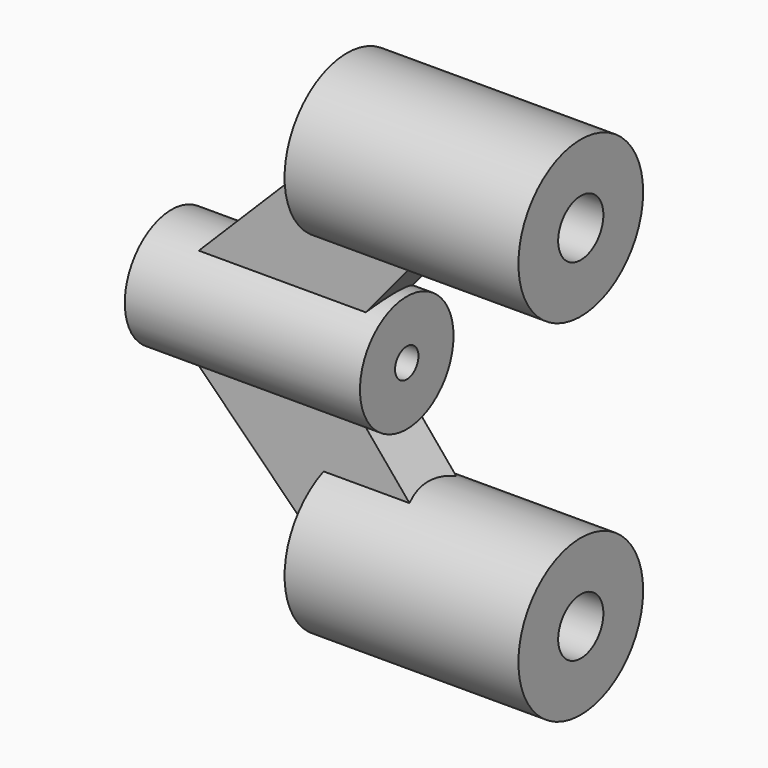
from build123d import *

# Parameters (mm, degrees)
F0_R      = 4
F1_DEPTH  = 2
F2_R      = 4
F2_R_2    = 1.45
F3_DEPTH  = 10
F5_DEPTH  = 1.5
F8_R      = 3
F9_DEPTH  = 12.07
F10_R     = 0.75
F11_DEPTH = 25


with BuildPart() as f1:
    # F0 (on Right) → F1 (new body)
    with BuildSketch(Plane.YZ):
        Circle(F0_R)
    extrude(amount=F1_DEPTH)

    # F2 (on face) → F3 (join)
    with BuildSketch(Plane.YZ.offset(2)):
        Circle(F2_R)
        Circle(F2_R_2, mode=Mode.SUBTRACT)
    extrude(amount=F3_DEPTH)

    # F4 (on Front) → F5 (join, symmetric)
    with BuildSketch(Plane.XZ):
        Polygon((0, -3), (0, 0), (-9, -9), (0, -9), (5, -3), align=None)
    extrude(amount=F5_DEPTH, both=True)

    # F8 (on plane+point) → F9 (join)
    with BuildSketch(Plane.YZ.offset(-9)):
        with Locations((0, -9)):
            Circle(F8_R)
    extrude(amount=F9_DEPTH)

    # F10 (on face) → F11 (cut)
    with BuildSketch(Plane(origin=(-9, 0, 0), x_dir=(0, -1, 0), z_dir=(-1, 0, 0))):
        with Locations((0, -9)):
            Circle(F10_R)
    extrude(amount=-F11_DEPTH, mode=Mode.SUBTRACT)

    # F13: F1 across plane


with BuildPart() as f1_1:
    add(f1.part)
    add(f1.part.mirror(Plane.XY.offset(-9)))


solid = f1_1.part
